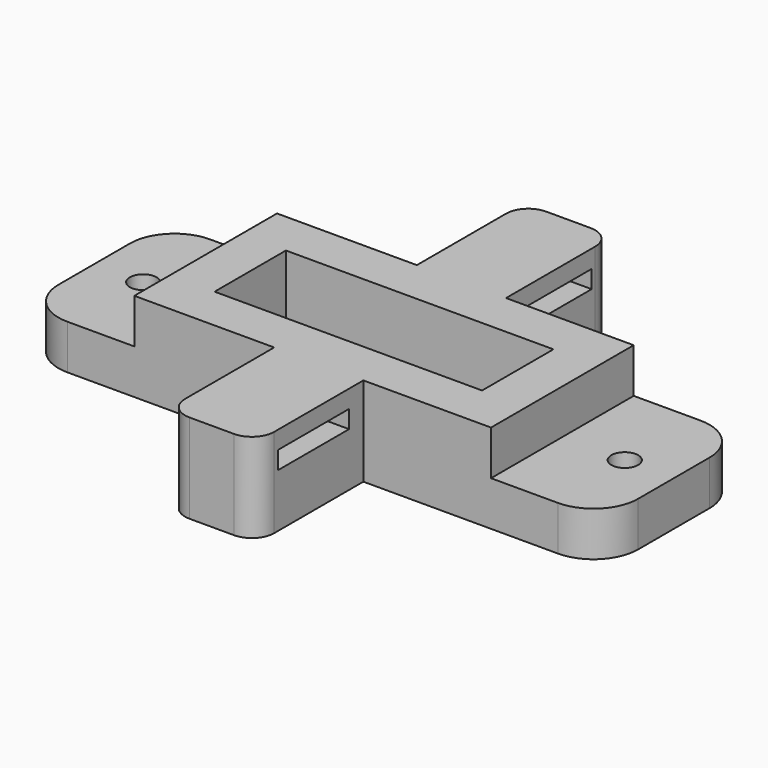
from build123d import *

# Parameters (mm, degrees)
F0_W     = 10
F0_H     = 20
F0_W_2   = 28.184968
F0_R     = 1.5
F0_W_3   = 26.815032
F0_H_2   = 15
F1_DEPTH = 5
F2_W     = 40
F2_H     = 20
F2_W_2   = 10
F2_H_2   = 15
F3_DEPTH = 5
F4_W     = 10
F4_H     = 2
F5_DEPTH = 10
F6_W     = 30
F6_H     = 10
F7_DEPTH = 25
F8_R     = 5
F9_R     = 2.5


with BuildPart() as f1:
    # F0 (on Top) → F1 (new body)
    with BuildSketch(Plane.XY):
        with Locations((0.684968, 0)):
            Rectangle(F0_W, F0_H)
        with Locations((-18.407516, 0)):
            Rectangle(F0_W_2, F0_H)
        with Locations((-27, 0)):
            Circle(F0_R, mode=Mode.SUBTRACT)
        with Locations((19.092484, 0)):
            Rectangle(F0_W_3, F0_H)
        with Locations((27, 0)):
            Circle(F0_R, mode=Mode.SUBTRACT)
        with Locations((0.684968, 17.5)):
            Rectangle(F0_W, F0_H_2)
        with Locations((0.684968, -17.5)):
            Rectangle(F0_W, F0_H_2)
    extrude(amount=F1_DEPTH)

    # F2 (on face) → F3 (join)
    with BuildSketch(Plane.XY.offset(5)):
        Rectangle(F2_W, F2_H)
        with Locations((0.684968, 17.5)):
            Rectangle(F2_W_2, F2_H_2)
        with Locations((0.684968, -17.5)):
            Rectangle(F2_W_2, F2_H_2)
    extrude(amount=F3_DEPTH)

    # F4 (on face) → F5 (cut)
    with BuildSketch(Plane(origin=(-4.315032, 0, 0), x_dir=(0, -1, 0), z_dir=(-1, 0, 0))):
        with Locations((-17, 7)):
            Rectangle(F4_W, F4_H)
        with Locations((17, 7)):
            Rectangle(F4_W, F4_H)
    extrude(amount=-F5_DEPTH, mode=Mode.SUBTRACT)

    # F6 (on face) → F7 (cut)
    with BuildSketch(Plane.XY.offset(10)):
        Rectangle(F6_W, F6_H)
    extrude(amount=-F7_DEPTH, mode=Mode.SUBTRACT)

    # F8
    f8_edges = [f1.edges().sort_by_distance(p)[0] for p in [
        (-32.5, -10, 2.5),
        (-32.5, 10, 2.5),
        (32.5, 10, 2.5),
        (32.5, -10, 2.5),
    ]]
    fillet(f8_edges, radius=F8_R)

    # F9
    f9_edges = [f1.edges().sort_by_distance(p)[0] for p in [
        (-4.315032, -25, 5),
        (5.684968, -25, 5),
        (5.684968, 25, 5),
        (-4.315032, 25, 5),
    ]]
    fillet(f9_edges, radius=F9_R)


solid = f1.part
